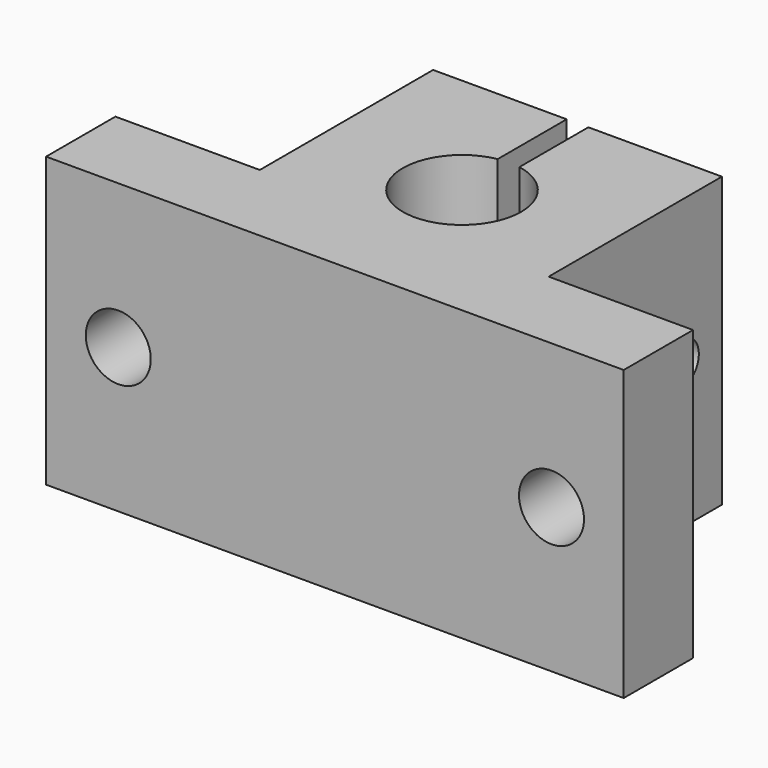
from build123d import *

# Parameters (mm, degrees)
F1_DEPTH = 20
F2_R     = 1.5
F3_DEPTH = 20
F4_W     = 2.8
F4_H     = 6
F5_DEPTH = 7.5
F6_R     = 2.25
F7_DEPTH = 6


with BuildPart() as f1:
    # F0 (on Top) → F1 (new body)
    with BuildSketch(Plane.XY):
        with BuildLine():
            Line((-38.333333, 9.652778), (-38.333333, -5.347222))
            Line((-38.333333, -5.347222), (-18.333333, -5.347222))
            Line((-18.333333, -5.347222), (-18.333333, 9.652778))
            Line((-18.333333, 9.652778), (-27.583333, 9.652778))
            Line((-27.583333, 9.652778), (-27.583333, 3.683597))
            ThreePointArc((-27.583333, 3.683597), (-25.18016, 2.273369), (-24.233333, -0.347222))
            ThreePointArc((-24.233333, -0.347222), (-30.953925, -3.500395), (-29.083333, 3.683597))
            Line((-29.083333, 3.683597), (-29.083333, 9.652778))
            Line((-29.083333, 9.652778), (-38.333333, 9.652778))
        make_face()
        Polygon((-48.333333, -5.347222), (-48.333333, -11.347222), (-8.333333, -11.347222), (-8.333333, -5.347222), (-18.333333, -5.347222), (-38.333333, -5.347222), align=None)
    extrude(amount=F1_DEPTH)

    # F2 (on face) → F3 (cut)
    with BuildSketch(Plane(origin=(-38.333333, 0, 0), x_dir=(0, -1, 0), z_dir=(-1, 0, 0))):
        with Locations((-6.152778, 10)):
            Circle(F2_R)
    extrude(amount=-F3_DEPTH, mode=Mode.SUBTRACT)

    # F4 (on face) → F5 (cut)
    with BuildSketch(Plane(origin=(0, 9.652778, 0), x_dir=(-1, 0, 0), z_dir=(0, 1, 0))):
        with Locations((20.733333, 10)):
            Rectangle(F4_W, F4_H)
    extrude(amount=-F5_DEPTH, mode=Mode.SUBTRACT)

    # F6 (on face) → F7 (cut)
    with BuildSketch(Plane(origin=(0, -5.347222, 0), x_dir=(-1, 0, 0), z_dir=(0, 1, 0))):
        with Locations((43.333333, 10)):
            Circle(F6_R)
        with Locations((13.333333, 10)):
            Circle(F6_R)
    extrude(amount=-F7_DEPTH, mode=Mode.SUBTRACT)


solid = f1.part
